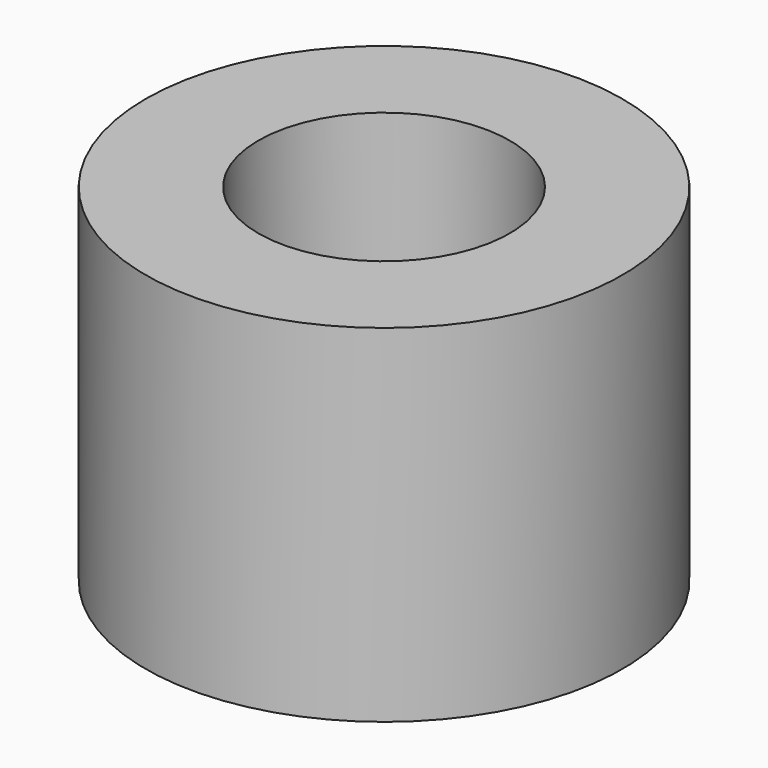
from build123d import *

# Parameters (mm, degrees)
F0_W    = 1.3
F0_H    = 4
F2_SIZE = 0.2


with BuildPart() as f1:
    # F0 (on Front) → F1 (revolve)
    with BuildSketch(Plane.XZ):
        with Locations((-2.1, 2)):
            Rectangle(F0_W, F0_H)
    revolve(axis=Axis((0, 0, 4.375246), (0, 0, 1)))

    # F2
    f2_edges = [f1.edges().sort_by_distance(p)[0] for p in [
        (1.45, 0, 0),
    ]]
    chamfer(f2_edges, length=F2_SIZE)


solid = f1.part
